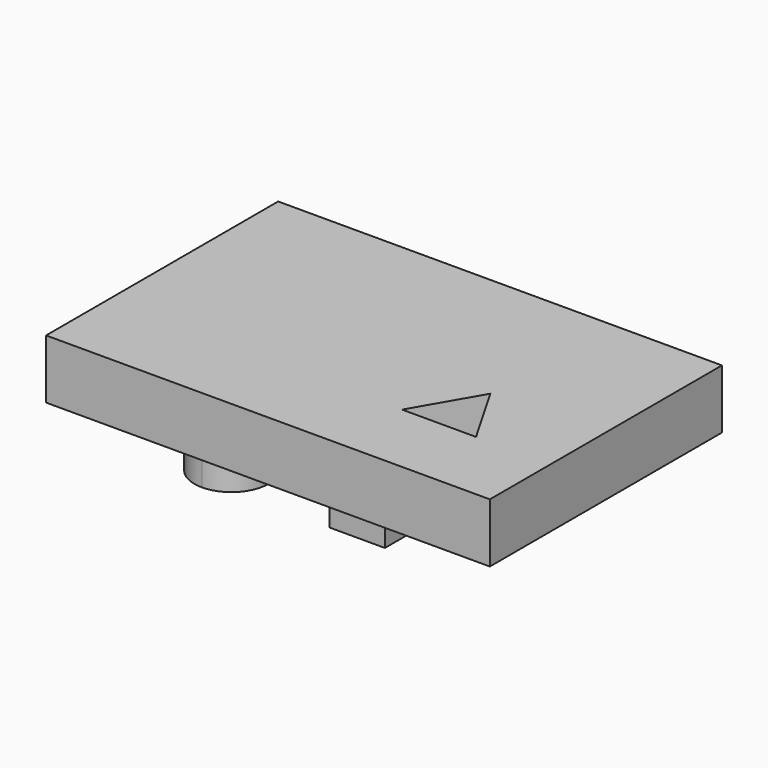
from build123d import *

# Parameters (mm, degrees)
F1_DEPTH = 20.32
F2_DEPTH = 31.75


with BuildPart() as f1:
    # F0 (on Top) → F1 (new body)
    with BuildSketch(Plane.XY):
        Polygon((-107.813954, -47.985758), (0.136046, -47.985758), (44.586046, -47.985758), (44.586046, 51.636038), (-107.813954, 51.636038), align=None)
        with BuildLine():
            ThreePointArc((-69.85, 0), (-73.569744, -8.980256), (-82.55, -12.7))
            ThreePointArc((-82.55, -12.7), (-91.530256, 8.980256), (-69.85, 0))
        make_face(mode=Mode.SUBTRACT)
        Polygon((-22.225, -9.525), (-31.75, -9.525), (-41.275, -9.525), (-41.275, 9.525), (-22.225, 9.525), align=None, mode=Mode.SUBTRACT)
        Polygon((-6.35, -21.997045), (6.35, 0), (19.05, -21.997045), align=None, mode=Mode.SUBTRACT)
        with BuildLine():
            ThreePointArc((-69.85, 0), (-91.530256, 8.980256), (-82.55, -12.7))
            ThreePointArc((-82.55, -12.7), (-73.569744, -8.980256), (-69.85, 0))
        make_face()
        Polygon((-41.275, -9.525), (-31.75, -9.525), (-22.225, -9.525), (-22.225, 9.525), (-41.275, 9.525), align=None)
    extrude(amount=F1_DEPTH)

    # F0 (on Top) → F2 (join)
    with BuildSketch(Plane.XY):
        with BuildLine():
            ThreePointArc((-69.85, 0), (-91.530256, 8.980256), (-82.55, -12.7))
            ThreePointArc((-82.55, -12.7), (-73.569744, -8.980256), (-69.85, 0))
        make_face()
        Polygon((-41.275, -9.525), (-31.75, -9.525), (-22.225, -9.525), (-22.225, 9.525), (-41.275, 9.525), align=None)
    extrude(amount=-F2_DEPTH)


solid = f1.part
